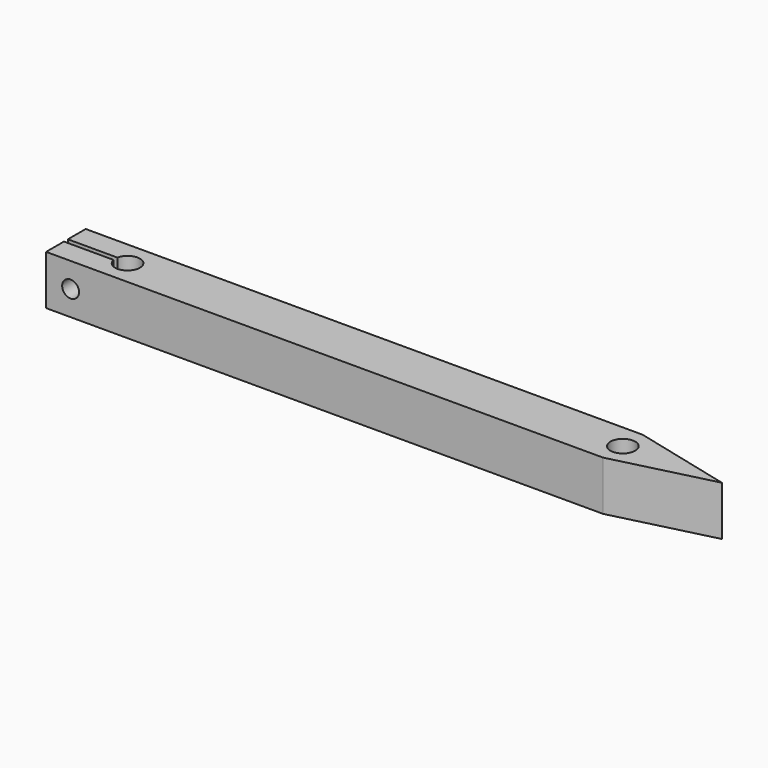
from build123d import *

# Parameters (mm, degrees)
SKETCH001_R  = 2.5
PAD_DEPTH    = 10
SKETCH_R     = 1.7
POCKET_DEPTH = 12


with BuildPart() as part:
    # Sketch001 → Pad (new body)
    with BuildSketch(Plane.XY):
        with BuildLine():
            Line((0, 0), (100, 0))
            Line((100, 0), (120, 5))
            Line((120, 5), (100, 10))
            Line((100, 10), (-12.44949, 10))
            Line((-12.44949, 10), (-12.44949, 5.5))
            Line((-12.44949, 5.5), (-2.44949, 5.5))
            ThreePointArc((-2.44949, 4.5), (2.5, 5), (-2.44949, 5.5))
            Line((-2.44949, 4.5), (-12.44949, 4.5))
            Line((-12.44949, 4.5), (-12.44949, 0))
            Line((-12.44949, 0), (0, 0))
        make_face()
        with Locations((100, 5)):
            Circle(SKETCH001_R, mode=Mode.SUBTRACT)
    extrude(amount=PAD_DEPTH)

    # Sketch (on Face7 of Pad) → Pocket (cut)
    with BuildSketch(Plane(origin=(0, 10, 0), x_dir=(-1, 0, 0), z_dir=(0, 1, 0))):
        with Locations((7.5, 5)):
            Circle(SKETCH_R)
    extrude(amount=-POCKET_DEPTH, mode=Mode.SUBTRACT)


solid = part.part
